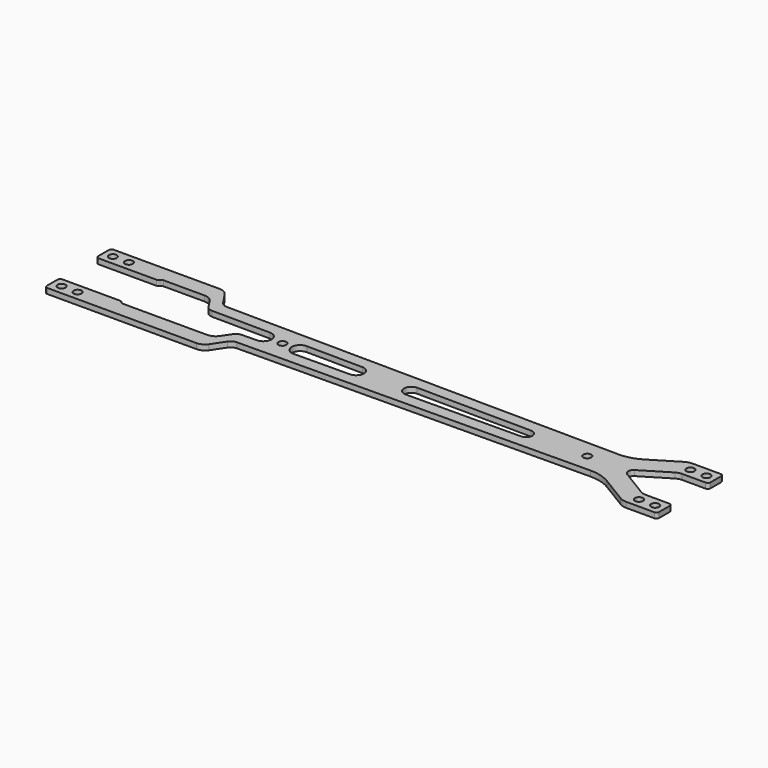
from build123d import *

# Parameters (mm, degrees)
F0_R     = 1.5
F1_DEPTH = 2


with BuildPart() as f1:
    # F0 (on Top) → F1 (new body)
    with BuildSketch(Plane.XY):
        with BuildLine():
            Line((-94.579593, -9.5), (-94.579593, -14.5))
            ThreePointArc((-94.579593, -14.5), (-94.2867, -15.207107), (-93.579593, -15.5))
            Line((-93.579593, -15.5), (-37.784385, -15.5))
            ThreePointArc((-37.784385, -15.5), (-35.90089, -15.028802), (-34.461144, -13.726222))
            Line((-34.461144, -13.726222), (-31.340059, -9.067154))
            ThreePointArc((-31.340059, -9.067154), (-30.272313, -8.096694), (-28.87501, -7.736946))
            Line((-28.87501, -7.736946), (102.367442, -6.538983))
            ThreePointArc((102.367442, -6.538983), (106.480219, -7.07487), (110.289026, -8.716546))
            Line((110.289026, -8.716546), (120.265907, -14.773938))
            ThreePointArc((120.265907, -14.773938), (121.51352, -15.315064), (122.860798, -15.5))
            Line((122.860798, -15.5), (133.420407, -15.5))
            ThreePointArc((133.420407, -15.5), (134.127514, -15.207107), (134.420407, -14.5))
            Line((134.420407, -14.5), (134.420407, -9.5))
            ThreePointArc((134.420407, -9.5), (134.127514, -8.792893), (133.420407, -8.5))
            Line((133.420407, -8.5), (124.539625, -8.5))
            ThreePointArc((124.539625, -8.5), (123.461804, -8.352051), (122.463713, -7.91915))
            Line((122.463713, -7.91915), (112.236177, -1.709575))
            ThreePointArc((112.236177, -1.709575), (111.274134, 0), (112.236177, 1.709575))
            Line((112.236177, 1.709575), (122.463713, 7.91915))
            ThreePointArc((122.463713, 7.91915), (123.461804, 8.352051), (124.539625, 8.5))
            Line((124.539625, 8.5), (133.420407, 8.5))
            ThreePointArc((133.420407, 8.5), (134.127514, 8.792893), (134.420407, 9.5))
            Line((134.420407, 9.5), (134.420407, 14.5))
            ThreePointArc((134.420407, 14.5), (134.127514, 15.207107), (133.420407, 15.5))
            Line((133.420407, 15.5), (122.860798, 15.5))
            ThreePointArc((122.860798, 15.5), (121.51352, 15.315064), (120.265907, 14.773938))
            Line((120.265907, 14.773938), (110.289026, 8.716546))
            ThreePointArc((110.289026, 8.716546), (106.480219, 7.07487), (102.367442, 6.538983))
            Line((102.367442, 6.538983), (-45.154761, 7.885545))
            ThreePointArc((-45.154761, 7.885545), (-46.552064, 8.245293), (-47.619809, 9.215753))
            Line((-47.619809, 9.215753), (-50.641349, 13.726222))
            ThreePointArc((-50.641349, 13.726222), (-52.081095, 15.028802), (-53.96459, 15.5))
            Line((-53.96459, 15.5), (-93.579593, 15.5))
            ThreePointArc((-93.579593, 15.5), (-94.2867, 15.207107), (-94.579593, 14.5))
            Line((-94.579593, 14.5), (-94.579593, 9.5))
            ThreePointArc((-94.579593, 9.5), (-94.2867, 8.792893), (-93.579593, 8.5))
            Line((-93.579593, 8.5), (-71.993807, 8.5))
            ThreePointArc((-71.993807, 8.5), (-71.611123, 8.57612), (-71.2867, 8.792893))
            Line((-71.2867, 8.792893), (-70.872486, 9.207107))
            ThreePointArc((-70.872486, 9.207107), (-70.548063, 9.42388), (-70.16538, 9.5))
            Line((-70.16538, 9.5), (-54.756, 9.5))
            ThreePointArc((-54.756, 9.5), (-52.844256, 9.013578), (-51.397468, 7.672617))
            Line((-51.397468, 7.672617), (-49.456572, 4.67229))
            ThreePointArc((-49.456572, 4.67229), (-48.383493, 3.67314), (-46.965056, 3.301877))
            Line((-46.965056, 3.301877), (-25.211099, 3.10331))
            ThreePointArc((-25.211099, 3.10331), (-22.135986, 0), (-25.211099, -3.10331))
            Line((-25.211099, -3.10331), (-30.618603, -3.152669))
            ThreePointArc((-30.618603, -3.152669), (-32.015906, -3.512417), (-33.083652, -4.482878))
            Line((-33.083652, -4.482878), (-35.256352, -7.726222))
            ThreePointArc((-35.256352, -7.726222), (-36.696098, -9.028802), (-38.579593, -9.5))
            Line((-38.579593, -9.5), (-70.16538, -9.5))
            ThreePointArc((-70.16538, -9.5), (-70.548063, -9.42388), (-70.872486, -9.207107))
            Line((-70.872486, -9.207107), (-71.2867, -8.792893))
            ThreePointArc((-71.2867, -8.792893), (-71.611123, -8.57612), (-71.993807, -8.5))
            Line((-71.993807, -8.5), (-93.579593, -8.5))
            ThreePointArc((-93.579593, -8.5), (-94.2867, -8.792893), (-94.579593, -9.5))
        make_face()
        with Locations((-91.079593, -12)):
            Circle(F0_R, mode=Mode.SUBTRACT)
        with Locations((-85.079593, -12)):
            Circle(F0_R, mode=Mode.SUBTRACT)
        with Locations((124.920407, -12)):
            Circle(F0_R, mode=Mode.SUBTRACT)
        with Locations((130.920407, -12)):
            Circle(F0_R, mode=Mode.SUBTRACT)
        with Locations((-18.079593, 0)):
            Circle(F0_R, mode=Mode.SUBTRACT)
        with BuildLine():
            Line((9.535083, -2.911781), (-11.447827, -3.10331))
            ThreePointArc((-11.447827, -3.10331), (-14.579593, 0), (-11.447827, 3.10331))
            Line((-11.447827, 3.10331), (9.535083, 2.911781))
            ThreePointArc((9.535083, 2.911781), (12.420407, 0), (9.535083, -2.911781))
        make_face(mode=Mode.SUBTRACT)
        with Locations((-91.079593, 12)):
            Circle(F0_R, mode=Mode.SUBTRACT)
        with Locations((-85.079593, 12)):
            Circle(F0_R, mode=Mode.SUBTRACT)
        with BuildLine():
            ThreePointArc((73.110114, 2.331478), (75.420407, 0), (73.110114, -2.331478))
            Line((73.110114, -2.331478), (30.168819, -2.72344))
            ThreePointArc((30.168819, -2.72344), (27.420407, 0), (30.168819, 2.72344))
            Line((30.168819, 2.72344), (73.110114, 2.331478))
        make_face(mode=Mode.SUBTRACT)
        with Locations((95.920407, 0)):
            Circle(F0_R, mode=Mode.SUBTRACT)
        with Locations((124.920407, 12)):
            Circle(F0_R, mode=Mode.SUBTRACT)
        with Locations((130.920407, 12)):
            Circle(F0_R, mode=Mode.SUBTRACT)
    extrude(amount=F1_DEPTH)


solid = f1.part
